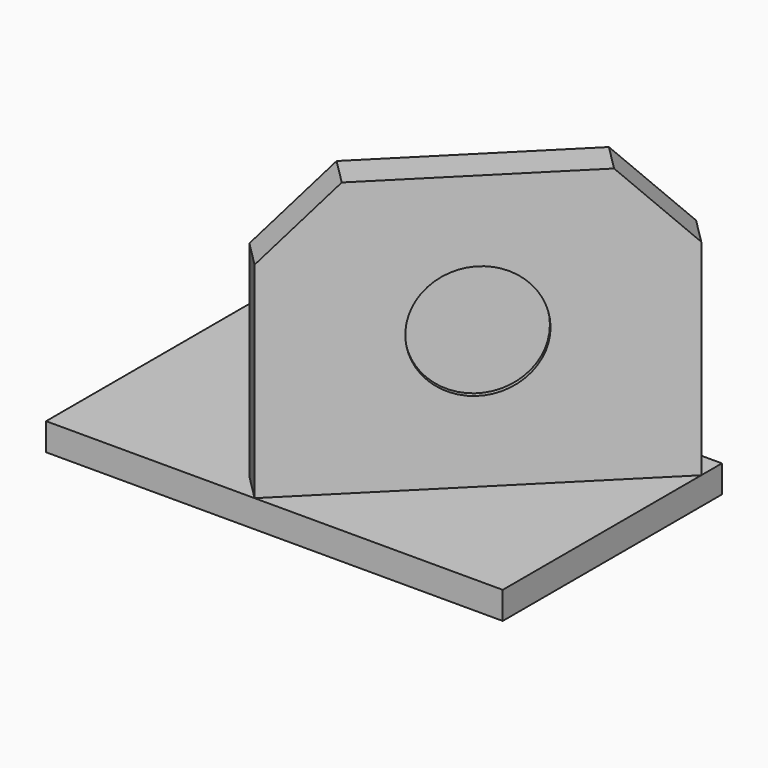
from build123d import *

# Parameters (mm, degrees)
F0_W     = 100
F0_H     = 60
F1_DEPTH = 6
F3_DEPTH = 60
F4_R     = 12.5
F5_DEPTH = 1
F6_SIZE  = 15


with BuildPart() as f1:
    # F0 (on Top) → F1 (new body)
    with BuildSketch(Plane.XY):
        Rectangle(F0_W, F0_H)
    extrude(amount=F1_DEPTH)

    # F2 (on face) → F3 (join)
    with BuildSketch(Plane.XY.offset(6)):
        Polygon((44.343146, 30), (-10, -24.343146), (-4.343146, -30), (50, 24.343146), align=None)
    extrude(amount=F3_DEPTH)

    # F4 (on face) → F5 (cut)
    with BuildSketch(Plane(origin=(12.828427, -12.828427, 0), x_dir=(0.707107, 0.707107, 0), z_dir=(0.707107, -0.707107, 0))):
        with Locations((14.142136, 36)):
            Circle(F4_R)
    extrude(amount=-F5_DEPTH, mode=Mode.SUBTRACT)

    # F6
    f6_edges = [f1.edges().sort_by_distance(p)[0] for p in [
        (-7.171573, -27.171573, 66),
        (47.171573, 27.171573, 66),
    ]]
    chamfer(f6_edges, length=F6_SIZE)


solid = f1.part
